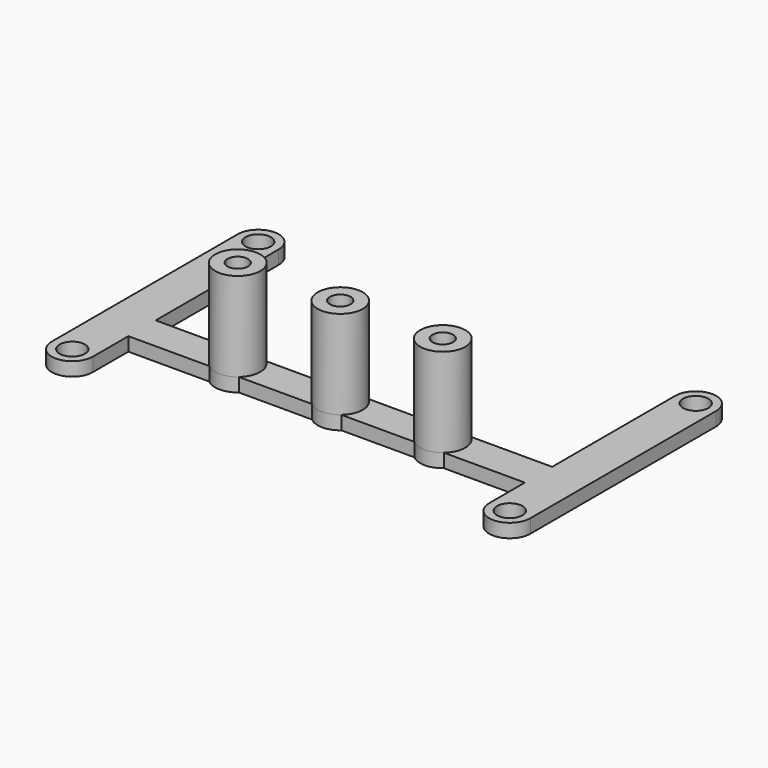
from build123d import *

# Parameters (mm, degrees)
SKETCH_W          = 70
SKETCH_H          = 5
PAD_DEPTH         = 2
PAD001_DEPTH      = 2
SKETCH002_R       = 3.3
PAD002_DEPTH      = 13
PAD002_DEPTH_BACK = 2
SKETCH003_R       = 1.5
SKETCH003_R_2     = 1.85
POCKET_DEPTH      = 15.001


with BuildPart() as part:
    # Sketch → Pad (new body)
    with BuildSketch(Plane.XY):
        with Locations((0, -8)):
            Rectangle(SKETCH_W, SKETCH_H)
    extrude(amount=PAD_DEPTH)

    # Sketch001 → Pad001 (new body)
    with BuildSketch(Plane.XY.offset(2)):
        with BuildLine():
            Line((35, 16.999981), (35, -17.000015))
            ThreePointArc((29, -17.000012), (31.999999, -20), (35, -17.000015))
            Line((29, -17.000012), (29, 16.999983))
            ThreePointArc((35, 16.999981), (32.000001, 20), (29, 16.999983))
        make_face()
    pad001 = extrude(amount=-PAD001_DEPTH)

    # Mirrored: Pad001 across Sketch001 V_Axis
    add(pad001.mirror(Plane(origin=(0, 0, 2), x_dir=(0, 0, 1), z_dir=(1, 0, 0))))

    # Sketch002 → Pad002 (new body, two sides)
    with BuildSketch(Plane.XY.offset(2)) as pad002_sk:
        with Locations((0, -8)):
            Circle(SKETCH002_R)
        with Locations((-15, -8)):
            Circle(SKETCH002_R)
        with Locations((15, -8)):
            Circle(SKETCH002_R)
    extrude(amount=PAD002_DEPTH)
    extrude(pad002_sk.sketch, amount=-PAD002_DEPTH_BACK)

    # Sketch003 → Pocket (cut, through all)
    with BuildSketch(Plane(origin=(0, 0, 0), x_dir=(1, 0, 0), z_dir=(0, 0, -1))):
        with Locations((0, 8)):
            Circle(SKETCH003_R)
        with Locations((-15, 8)):
            Circle(SKETCH003_R)
        with Locations((15, 8)):
            Circle(SKETCH003_R)
        with Locations((-32, -17)):
            Circle(SKETCH003_R_2)
        with Locations((-32, 17)):
            Circle(SKETCH003_R_2)
        with Locations((32, 17)):
            Circle(SKETCH003_R_2)
        with Locations((32, -17)):
            Circle(SKETCH003_R_2)
    extrude(amount=-POCKET_DEPTH, mode=Mode.SUBTRACT)


solid = part.part
